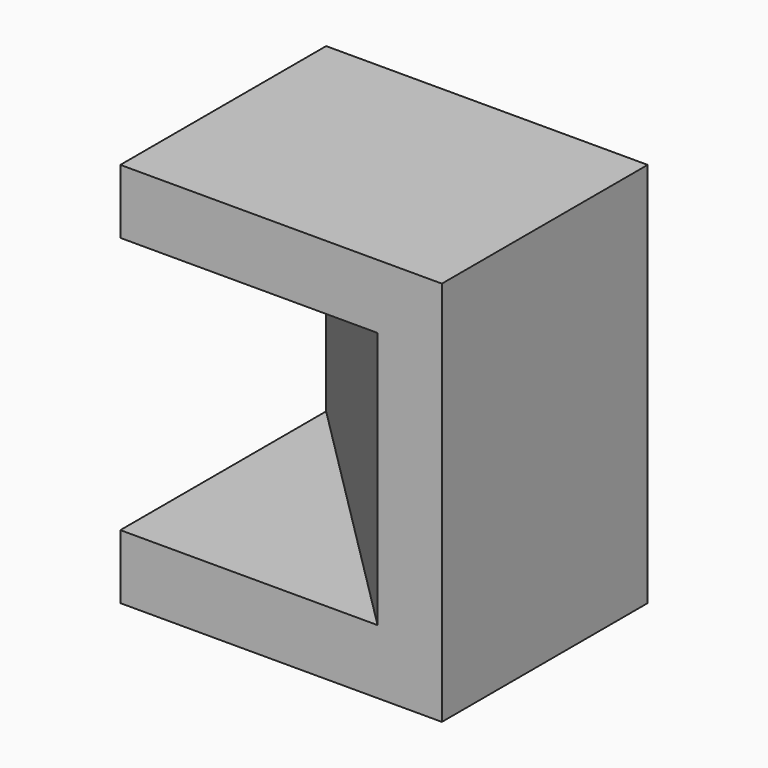
from build123d import *

# Parameters (mm, degrees)
F0_W     = 101.6
F0_H     = 101.6
F1_DEPTH = 25.4
F3_DEPTH = 101.6
F4_W     = 101.6
F4_H     = 101.6
F5_DEPTH = 25.4
F6_DEPTH = 25.4


with BuildPart() as f1:
    # F0 (on Top) → F1 (new body)
    with BuildSketch(Plane.XY):
        with Locations((50.8, -50.8)):
            Rectangle(F0_W, F0_H)
    extrude(amount=F1_DEPTH)

    # F2 (on face) → F3 (join)
    with BuildSketch(Plane.XY.offset(25.4)):
        Polygon((101.6, 0), (0, 0), (101.6, -101.6), align=None)
    extrude(amount=F3_DEPTH)

    # F4 (on face) → F5 (join)
    with BuildSketch(Plane.XY.offset(127)):
        with Locations((50.8, -50.8)):
            Rectangle(F4_W, F4_H)
    extrude(amount=F5_DEPTH)

    # F5_face (on face) → F6 (join)
    with BuildSketch(Plane(origin=(101.6, -50.8, 76.2), x_dir=(0, 1, 0), z_dir=(1, 0, 0))):
        Polygon((-50.8, -50.8), (-50.8, -76.2), (50.8, -76.2), (50.8, 76.2), (-50.8, 76.2), (-50.8, 50.8), align=None)
    extrude(amount=F6_DEPTH)


solid = f1.part
